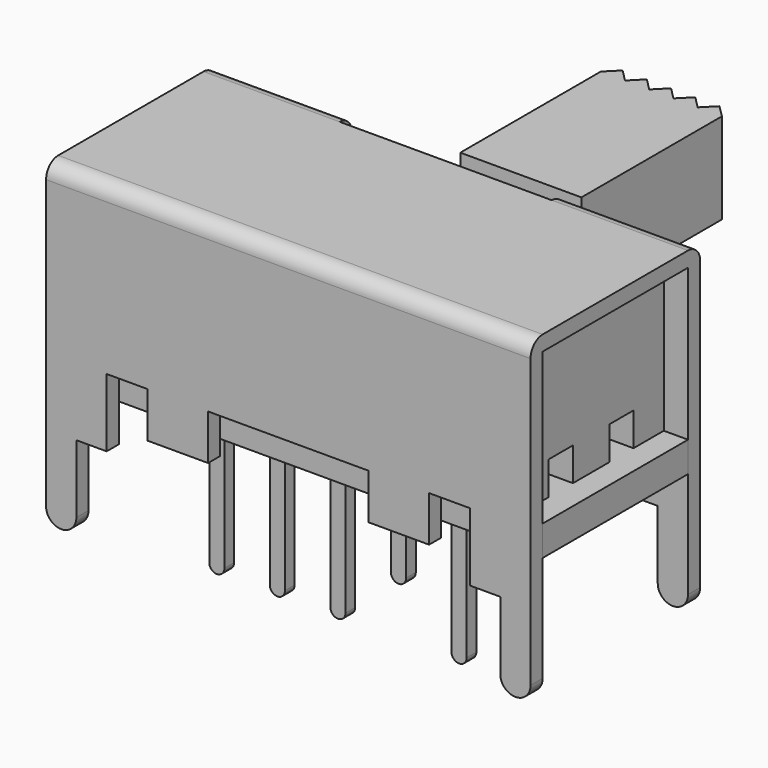
from build123d import *

# Parameters (mm, degrees)
BOX002_W         = 4
BOX002_H         = 10
BOX002_DEPTH     = 10
BOX001_W         = 7
BOX001_H         = 10
BOX001_DEPTH     = 3.5
BOX_W            = 20
BOX_H            = 6
BOX_DEPTH        = 10
EXTRUDE_DEPTH    = 7
FILLET_R         = 0.5
BOX003_W         = 16
BOX003_H         = 6
BOX003_DEPTH     = 1
EXTRUDE002_DEPTH = 0.4
EXTRUDE003_DEPTH = 0.4
EXTRUDE004_DEPTH = 0.4
EXTRUDE005_DEPTH = 0.4
EXTRUDE006_DEPTH = 0.4
EXTRUDE007_DEPTH = 0.4
EXTRUDE008_DEPTH = 0.4
EXTRUDE009_DEPTH = 0.4
BOX007_W         = 15
BOX007_H         = 1
BOX007_DEPTH     = 1.1
BOX006_W         = 15
BOX006_H         = 1
BOX006_DEPTH     = 1.1
BOX005_W         = 4
BOX005_H         = 1
BOX005_DEPTH     = 0.6
EXTRUDE001_DEPTH = 3
BOX004_W         = 10.4
BOX004_H         = 6
BOX004_DEPTH     = 4.9


with BuildPart() as cube002:
    # Box002 → Box002 (new body)
    with BuildSketch(Plane(origin=(-2, 0, -1), x_dir=(1, 0, 0), z_dir=(0, 0, 1))):
        with Locations((2, 5)):
            Rectangle(BOX002_W, BOX002_H)
    extrude(amount=BOX002_DEPTH)


with BuildPart() as fusion:
    # Box001 → Box001 (new body)
    with BuildSketch(Plane(origin=(-3.5, 3, 7), x_dir=(1, 0, 0), z_dir=(0, 0, 1))):
        with Locations((3.5, 5)):
            Rectangle(BOX001_W, BOX001_H)
    extrude(amount=BOX001_DEPTH)

    # Fusion: union Cube002
    add(cube002.part)


with BuildPart() as cube:
    # Box → Box (new body)
    with BuildSketch(Plane(origin=(-10, -3, 0), x_dir=(1, 0, 0), z_dir=(0, 0, 1))):
        with Locations((10, 3)):
            Rectangle(BOX_W, BOX_H)
    extrude(amount=BOX_DEPTH)


with BuildPart() as steelbody:
    # Sketch → Extrude (new body)
    with BuildSketch(Plane.XZ):
        with BuildLine():
            ThreePointArc((0, 0.5), (0.5, 0), (1, 0.5))
            Line((1, 0.5), (1, 2.75))
            Line((2, 2.75), (1, 2.75))
            Line((2, 2.75), (2, 5))
            Line((2, 5), (3.35, 5))
            Line((3.35, 5), (3.35, 3.5))
            Line((3.35, 3.5), (5.35, 3.5))
            Line((5.35, 3.5), (5.35, 5))
            Line((5.35, 5), (10.65, 5))
            Line((10.65, 3.5), (10.65, 5))
            Line((10.65, 3.5), (12.65, 3.5))
            Line((12.65, 5), (12.65, 3.5))
            Line((12.65, 5), (14, 5))
            Line((14, 5), (14, 2.75))
            Line((14, 2.75), (15, 2.75))
            Line((15, 2.75), (15, 0.5))
            ThreePointArc((15, 0.5), (15.5, 0), (16, 0.5))
            Line((16, 10.5), (16, 0.5))
            Line((0, 10.5), (16, 10.5))
            Line((0, 0.5), (0, 10.5))
        make_face()
    extrude(amount=EXTRUDE_DEPTH)


with BuildPart() as steelbody_1:
    # Extrude placement: moved
    add(steelbody.part.moved(Location((-8, 3.5, 0))))

    # Cut: cut Cube
    add(cube.part, mode=Mode.SUBTRACT)

    # Fillet
    fillet_edges = [steelbody_1.edges().sort_by_distance(p)[0] for p in [
        (0, 3.5, 10.5),
        (0, -3.5, 10.5),
    ]]
    fillet(fillet_edges, radius=FILLET_R)

    # Cut001: cut Fusion
    add(fusion.part, mode=Mode.SUBTRACT)


with BuildPart() as fiberglassbase:
    # Box003 → Box003 (new body)
    with BuildSketch(Plane(origin=(-8, -3, 4), x_dir=(1, 0, 0), z_dir=(0, 0, 1))):
        with Locations((8, 3)):
            Rectangle(BOX003_W, BOX003_H)
    extrude(amount=BOX003_DEPTH)


with BuildPart() as steelpin001:
    # Sketch002 → Extrude002 (new body)
    with BuildSketch(Plane.XZ):
        with BuildLine():
            ThreePointArc((-0.25, 0.25), (0, 0), (0.25, 0.25))
            Line((0.25, 0.25), (0.25, 4.25))
            Line((0.4, 4.8), (0.25, 4.25))
            Line((0.4, 4.8), (0.4, 7))
            Line((-0.4, 7), (0.4, 7))
            Line((-0.4, 4.8), (-0.4, 7))
            Line((-0.4, 4.8), (-0.25, 4.25))
            Line((-0.25, 0.25), (-0.25, 4.25))
        make_face()
    extrude(amount=EXTRUDE002_DEPTH)


with BuildPart() as steelpin001_1:
    # Extrude002 placement: moved
    add(steelpin001.part.moved(Location((0, 1.45, -1))))


with BuildPart() as steelpin002:
    # Sketch003 → Extrude003 (new body)
    with BuildSketch(Plane.XZ):
        with BuildLine():
            ThreePointArc((-0.25, 0.25), (0, 0), (0.25, 0.25))
            Line((0.25, 0.25), (0.25, 4.25))
            Line((0.4, 4.8), (0.25, 4.25))
            Line((0.4, 4.8), (0.4, 7))
            Line((-0.4, 7), (0.4, 7))
            Line((-0.4, 4.8), (-0.4, 7))
            Line((-0.4, 4.8), (-0.25, 4.25))
            Line((-0.25, 0.25), (-0.25, 4.25))
        make_face()
    extrude(amount=EXTRUDE003_DEPTH)


with BuildPart() as steelpin002_1:
    # Extrude003 placement: moved
    add(steelpin002.part.moved(Location((0, -1.05, -1))))


with BuildPart() as steelpin003:
    # Sketch004 → Extrude004 (new body)
    with BuildSketch(Plane.XZ):
        with BuildLine():
            ThreePointArc((-0.25, 0.25), (0, 0), (0.25, 0.25))
            Line((0.25, 0.25), (0.25, 4.25))
            Line((0.4, 4.8), (0.25, 4.25))
            Line((0.4, 4.8), (0.4, 7))
            Line((-0.4, 7), (0.4, 7))
            Line((-0.4, 4.8), (-0.4, 7))
            Line((-0.4, 4.8), (-0.25, 4.25))
            Line((-0.25, 0.25), (-0.25, 4.25))
        make_face()
    extrude(amount=EXTRUDE004_DEPTH)


with BuildPart() as steelpin003_1:
    # Extrude004 placement: moved
    add(steelpin003.part.moved(Location((-2, 1.45, -1))))


with BuildPart() as steelpin004:
    # Sketch005 → Extrude005 (new body)
    with BuildSketch(Plane.XZ):
        with BuildLine():
            ThreePointArc((-0.25, 0.25), (0, 0), (0.25, 0.25))
            Line((0.25, 0.25), (0.25, 4.25))
            Line((0.4, 4.8), (0.25, 4.25))
            Line((0.4, 4.8), (0.4, 7))
            Line((-0.4, 7), (0.4, 7))
            Line((-0.4, 4.8), (-0.4, 7))
            Line((-0.4, 4.8), (-0.25, 4.25))
            Line((-0.25, 0.25), (-0.25, 4.25))
        make_face()
    extrude(amount=EXTRUDE005_DEPTH)


with BuildPart() as steelpin004_1:
    # Extrude005 placement: moved
    add(steelpin004.part.moved(Location((-2, -1.05, -1))))


with BuildPart() as steelpin005:
    # Sketch006 → Extrude006 (new body)
    with BuildSketch(Plane.XZ):
        with BuildLine():
            ThreePointArc((-0.25, 0.25), (0, 0), (0.25, 0.25))
            Line((0.25, 0.25), (0.25, 4.25))
            Line((0.4, 4.8), (0.25, 4.25))
            Line((0.4, 4.8), (0.4, 7))
            Line((-0.4, 7), (0.4, 7))
            Line((-0.4, 4.8), (-0.4, 7))
            Line((-0.4, 4.8), (-0.25, 4.25))
            Line((-0.25, 0.25), (-0.25, 4.25))
        make_face()
    extrude(amount=EXTRUDE006_DEPTH)


with BuildPart() as steelpin005_1:
    # Extrude006 placement: moved
    add(steelpin005.part.moved(Location((4, 1.45, -1))))


with BuildPart() as steelpin006:
    # Sketch007 → Extrude007 (new body)
    with BuildSketch(Plane.XZ):
        with BuildLine():
            ThreePointArc((-0.25, 0.25), (0, 0), (0.25, 0.25))
            Line((0.25, 0.25), (0.25, 4.25))
            Line((0.4, 4.8), (0.25, 4.25))
            Line((0.4, 4.8), (0.4, 7))
            Line((-0.4, 7), (0.4, 7))
            Line((-0.4, 4.8), (-0.4, 7))
            Line((-0.4, 4.8), (-0.25, 4.25))
            Line((-0.25, 0.25), (-0.25, 4.25))
        make_face()
    extrude(amount=EXTRUDE007_DEPTH)


with BuildPart() as steelpin006_1:
    # Extrude007 placement: moved
    add(steelpin006.part.moved(Location((4, -1.05, -1))))


with BuildPart() as steelpin007:
    # Sketch008 → Extrude008 (new body)
    with BuildSketch(Plane.XZ):
        with BuildLine():
            ThreePointArc((-0.25, 0.25), (0, 0), (0.25, 0.25))
            Line((0.25, 0.25), (0.25, 4.25))
            Line((0.4, 4.8), (0.25, 4.25))
            Line((0.4, 4.8), (0.4, 7))
            Line((-0.4, 7), (0.4, 7))
            Line((-0.4, 4.8), (-0.4, 7))
            Line((-0.4, 4.8), (-0.25, 4.25))
            Line((-0.25, 0.25), (-0.25, 4.25))
        make_face()
    extrude(amount=EXTRUDE008_DEPTH)


with BuildPart() as steelpin007_1:
    # Extrude008 placement: moved
    add(steelpin007.part.moved(Location((-4, 1.45, -1))))


with BuildPart() as steelpin008:
    # Sketch009 → Extrude009 (new body)
    with BuildSketch(Plane.XZ):
        with BuildLine():
            ThreePointArc((-0.25, 0.25), (0, 0), (0.25, 0.25))
            Line((0.25, 0.25), (0.25, 4.25))
            Line((0.4, 4.8), (0.25, 4.25))
            Line((0.4, 4.8), (0.4, 7))
            Line((-0.4, 7), (0.4, 7))
            Line((-0.4, 4.8), (-0.4, 7))
            Line((-0.4, 4.8), (-0.25, 4.25))
            Line((-0.25, 0.25), (-0.25, 4.25))
        make_face()
    extrude(amount=EXTRUDE009_DEPTH)


with BuildPart() as steelpin008_1:
    # Extrude009 placement: moved
    add(steelpin008.part.moved(Location((-4, -1.05, -1))))


with BuildPart() as cube006:
    # Box007 → Box007 (new body)
    with BuildSketch(Plane(origin=(-7.5, 0.75, 5), x_dir=(1, 0, 0), z_dir=(0, 0, 1))):
        with Locations((7.5, 0.5)):
            Rectangle(BOX007_W, BOX007_H)
    extrude(amount=BOX007_DEPTH)


with BuildPart() as fusion002:
    # Box006 → Box006 (new body)
    with BuildSketch(Plane(origin=(-7.5, -1.75, 5), x_dir=(1, 0, 0), z_dir=(0, 0, 1))):
        with Locations((7.5, 0.5)):
            Rectangle(BOX006_W, BOX006_H)
    extrude(amount=BOX006_DEPTH)

    # Fusion002: union Cube006
    add(cube006.part)


with BuildPart() as cube004:
    # Box005 → Box005 (new body)
    with BuildSketch(Plane(origin=(-2, 2.6, 2.4), x_dir=(1, 0, 0), z_dir=(0, 0, 1))):
        with Locations((2, 0.5)):
            Rectangle(BOX005_W, BOX005_H)
    extrude(amount=BOX005_DEPTH)


with BuildPart() as cut002:
    # Sketch001 → Extrude001 (new body)
    with BuildSketch(Plane.XY):
        Polygon((-2, 9.4), (-2, 3.6), (-1.5, 3.6), (-1.5, 3), (1.5, 3), (1.5, 3.6), (2, 3.6), (2, 9.4), (1.6, 9.8), (1.2, 9.4), (0.8, 9.8), (0.4, 9.4), (0, 9.8), (-0.4, 9.4), (-0.8, 9.8), (-1.2, 9.4), (-1.6, 9.8), align=None)
    extrude(amount=EXTRUDE001_DEPTH)

    # Cut002: cut Cube004
    add(cube004.part, mode=Mode.SUBTRACT)


with BuildPart() as cut002_1:
    # Cut002 placement: moved
    add(cut002.part.moved(Location((0, 0, 7.5))))


with BuildPart() as plasticlever001:
    # Box004 → Box004 (new body)
    with BuildSketch(Plane(origin=(-5.2, -3, 5), x_dir=(1, 0, 0), z_dir=(0, 0, 1))):
        with Locations((5.2, 3)):
            Rectangle(BOX004_W, BOX004_H)
    extrude(amount=BOX004_DEPTH)

    # Fusion001: union Cut002
    add(cut002_1.part)


with BuildPart() as plasticlever001_1:
    # Fusion001 placement: moved
    add(plasticlever001.part.moved(Location((2, 0, 0))))

    # Cut003: cut Fusion002
    add(fusion002.part, mode=Mode.SUBTRACT)


solid = Compound([steelbody_1.part, fiberglassbase.part, steelpin001_1.part, steelpin002_1.part, steelpin003_1.part, steelpin004_1.part, steelpin005_1.part, steelpin006_1.part, steelpin007_1.part, steelpin008_1.part, plasticlever001_1.part])
